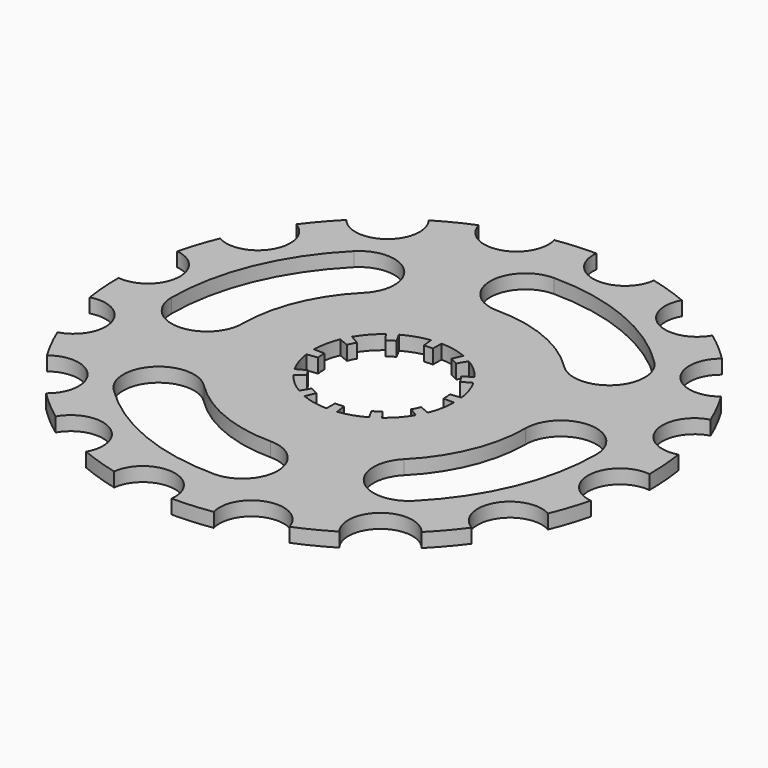
from build123d import *

# Parameters (mm, degrees)
F1_DEPTH = 2
F3_DEPTH = 25
F5_DEPTH = 2


with BuildPart() as f1:
    # F0 (on Top) → F1 (new body)
    with BuildSketch(Plane.XY):
        with BuildLine():
            ThreePointArc((36.403983, -9), (32.451992, -3.951992), (37.5, 0))
            ThreePointArc((37.5, 0), (37.394112, 2.816094), (37.077046, 5.616285))
            ThreePointArc((37.077046, 5.616285), (31.494093, 8.767675), (34.645482, 14.350629))
            ThreePointArc((34.645482, 14.350629), (33.469982, 16.911839), (32.105464, 19.377542))
            ThreePointArc((32.105464, 19.377542), (25.741503, 20.152543), (26.516504, 26.516504))
            ThreePointArc((26.516504, 26.516504), (24.450351, 28.43291), (22.246117, 30.188744))
            ThreePointArc((22.246117, 30.188744), (16.070004, 28.469369), (14.350629, 34.645482))
            ThreePointArc((14.350629, 34.645482), (11.708375, 35.625327), (9, 36.403983))
            ThreePointArc((9, 36.403983), (3.951992, 32.451992), (0, 37.5))
            ThreePointArc((0, 37.5), (-2.816094, 37.394112), (-5.616285, 37.077046))
            ThreePointArc((-5.616285, 37.077046), (-8.767675, 31.494093), (-14.350629, 34.645482))
            ThreePointArc((-14.350629, 34.645482), (-16.911839, 33.469982), (-19.377542, 32.105464))
            ThreePointArc((-19.377542, 32.105464), (-20.152543, 25.741503), (-26.516504, 26.516504))
            ThreePointArc((-26.516504, 26.516504), (-28.43291, 24.450351), (-30.188744, 22.246117))
            ThreePointArc((-30.188744, 22.246117), (-28.469369, 16.070004), (-34.645482, 14.350629))
            ThreePointArc((-34.645482, 14.350629), (-35.625327, 11.708375), (-36.403983, 9))
            ThreePointArc((-36.403983, 9), (-32.451992, 3.951992), (-37.5, 0))
            ThreePointArc((-37.5, 0), (-37.394112, -2.816094), (-37.077046, -5.616285))
            ThreePointArc((-37.077046, -5.616285), (-31.494093, -8.767675), (-34.645482, -14.350629))
            ThreePointArc((-34.645482, -14.350629), (-33.469982, -16.911839), (-32.105464, -19.377542))
            ThreePointArc((-32.105464, -19.377542), (-25.741503, -20.152543), (-26.516504, -26.516504))
            ThreePointArc((-26.516504, -26.516504), (-24.450351, -28.43291), (-22.246117, -30.188744))
            ThreePointArc((-22.246117, -30.188744), (-16.070004, -28.469369), (-14.350629, -34.645482))
            ThreePointArc((-14.350629, -34.645482), (-11.708375, -35.625327), (-9, -36.403983))
            ThreePointArc((-9, -36.403983), (-3.951992, -32.451992), (0, -37.5))
            ThreePointArc((0, -37.5), (2.816094, -37.394112), (5.616285, -37.077046))
            ThreePointArc((5.616285, -37.077046), (8.767675, -31.494093), (14.350629, -34.645482))
            ThreePointArc((14.350629, -34.645482), (16.911839, -33.469982), (19.377542, -32.105464))
            ThreePointArc((19.377542, -32.105464), (20.152543, -25.741503), (26.516504, -26.516504))
            ThreePointArc((26.516504, -26.516504), (28.43291, -24.450351), (30.188744, -22.246117))
            ThreePointArc((30.188744, -22.246117), (28.469369, -16.070004), (34.645482, -14.350629))
            ThreePointArc((34.645482, -14.350629), (35.625327, -11.708375), (36.403983, -9))
        make_face()
    extrude(amount=F1_DEPTH)

    # F2 (on face) → F3 (cut)
    with BuildSketch(Plane.XY.offset(2)):
        with BuildLine():
            ThreePointArc((-20, 0), (-18.477591, 7.653669), (-14.142136, 14.142136))
            ThreePointArc((-14.142136, 14.142136), (-14.142136, 21.213203), (-21.213203, 21.213203))
            ThreePointArc((-21.213203, 21.213203), (-27.716386, 11.480503), (-30, 0))
            ThreePointArc((-30, 0), (-25, -5), (-20, 0))
        make_face()
        with BuildLine():
            ThreePointArc((0, 20), (7.653669, 18.477591), (14.142136, 14.142136))
            ThreePointArc((14.142136, 14.142136), (21.213203, 14.142136), (21.213203, 21.213203))
            ThreePointArc((21.213203, 21.213203), (11.480503, 27.716386), (0, 30))
            ThreePointArc((0, 30), (-5, 25), (0, 20))
        make_face()
        with BuildLine():
            ThreePointArc((20, 0), (18.477591, -7.653669), (14.142136, -14.142136))
            ThreePointArc((14.142136, -14.142136), (14.142136, -21.213203), (21.213203, -21.213203))
            ThreePointArc((21.213203, -21.213203), (27.716386, -11.480503), (30, 0))
            ThreePointArc((30, 0), (25, 5), (20, 0))
        make_face()
        with BuildLine():
            ThreePointArc((0, -20), (-7.653669, -18.477591), (-14.142136, -14.142136))
            ThreePointArc((-14.142136, -14.142136), (-21.213203, -14.142136), (-21.213203, -21.213203))
            ThreePointArc((-21.213203, -21.213203), (-11.480503, -27.716386), (0, -30))
            ThreePointArc((0, -30), (5, -25), (0, -20))
        make_face()
    extrude(amount=-F3_DEPTH, mode=Mode.SUBTRACT)

    # F4 (on face) → F5 (cut)
    with BuildSketch(Plane.XY.offset(2)):
        with BuildLine():
            Line((8.427281, 1.109473), (9.914449, 1.305262))
            ThreePointArc((9.914449, 1.305262), (9.490349, 3.151709), (8.72562, 4.885034))
            Line((8.72562, 4.885034), (7.416777, 4.152279))
            ThreePointArc((7.416777, 4.152279), (7.098564, 4.67551), (6.743503, 5.174472))
            Line((6.743503, 5.174472), (7.933533, 6.087614))
            ThreePointArc((7.933533, 6.087614), (6.643029, 7.474635), (5.114091, 8.593374))
            Line((5.114091, 8.593374), (4.346978, 7.304368))
            ThreePointArc((4.346978, 7.304368), (3.809781, 7.598392), (3.252809, 7.852976))
            Line((3.252809, 7.852976), (3.826834, 9.238795))
            ThreePointArc((3.826834, 9.238795), (2.015715, 9.794738), (0.132246, 9.999126))
            Line((0.132246, 9.999126), (0.112409, 8.499257))
            ThreePointArc((0.112409, 8.499257), (-0.499829, 8.485291), (-1.109473, 8.427281))
            Line((-1.109473, 8.427281), (-1.305262, 9.914449))
            ThreePointArc((-1.305262, 9.914449), (-3.151709, 9.490349), (-4.885034, 8.72562))
            Line((-4.885034, 8.72562), (-4.152279, 7.416777))
            ThreePointArc((-4.152279, 7.416777), (-4.67551, 7.098564), (-5.174472, 6.743503))
            Line((-5.174472, 6.743503), (-6.087614, 7.933533))
            ThreePointArc((-6.087614, 7.933533), (-7.474635, 6.643029), (-8.593374, 5.114091))
            Line((-8.593374, 5.114091), (-7.304368, 4.346978))
            ThreePointArc((-7.304368, 4.346978), (-7.598392, 3.809781), (-7.852976, 3.252809))
            Line((-7.852976, 3.252809), (-9.238795, 3.826834))
            ThreePointArc((-9.238795, 3.826834), (-9.794738, 2.015715), (-9.999126, 0.132246))
            Line((-9.999126, 0.132246), (-8.499257, 0.112409))
            ThreePointArc((-8.499257, 0.112409), (-8.485291, -0.499829), (-8.427281, -1.109473))
            Line((-8.427281, -1.109473), (-9.914449, -1.305262))
            ThreePointArc((-9.914449, -1.305262), (-9.490349, -3.151709), (-8.72562, -4.885034))
            Line((-8.72562, -4.885034), (-7.416777, -4.152279))
            ThreePointArc((-7.416777, -4.152279), (-7.098564, -4.67551), (-6.743503, -5.174472))
            Line((-6.743503, -5.174472), (-7.933533, -6.087614))
            ThreePointArc((-7.933533, -6.087614), (-6.643029, -7.474635), (-5.114091, -8.593374))
            Line((-5.114091, -8.593374), (-4.346978, -7.304368))
            ThreePointArc((-4.346978, -7.304368), (-3.809781, -7.598392), (-3.252809, -7.852976))
            Line((-3.252809, -7.852976), (-3.826834, -9.238795))
            ThreePointArc((-3.826834, -9.238795), (-2.015715, -9.794738), (-0.132246, -9.999126))
            Line((-0.132246, -9.999126), (-0.112409, -8.499257))
            ThreePointArc((-0.112409, -8.499257), (0.499829, -8.485291), (1.109473, -8.427281))
            Line((1.109473, -8.427281), (1.305262, -9.914449))
            ThreePointArc((1.305262, -9.914449), (3.151709, -9.490349), (4.885034, -8.72562))
            Line((4.885034, -8.72562), (4.152279, -7.416777))
            ThreePointArc((4.152279, -7.416777), (4.67551, -7.098564), (5.174472, -6.743503))
            Line((5.174472, -6.743503), (6.087614, -7.933533))
            ThreePointArc((6.087614, -7.933533), (7.474635, -6.643029), (8.593374, -5.114091))
            Line((8.593374, -5.114091), (7.304368, -4.346978))
            ThreePointArc((7.304368, -4.346978), (7.598392, -3.809781), (7.852976, -3.252809))
            Line((7.852976, -3.252809), (9.238795, -3.826834))
            ThreePointArc((9.238795, -3.826834), (9.794738, -2.015715), (9.999126, -0.132246))
            Line((9.999126, -0.132246), (8.499257, -0.112409))
            ThreePointArc((8.499257, -0.112409), (8.485291, 0.499829), (8.427281, 1.109473))
        make_face()
    extrude(amount=-F5_DEPTH, mode=Mode.SUBTRACT)


solid = f1.part
